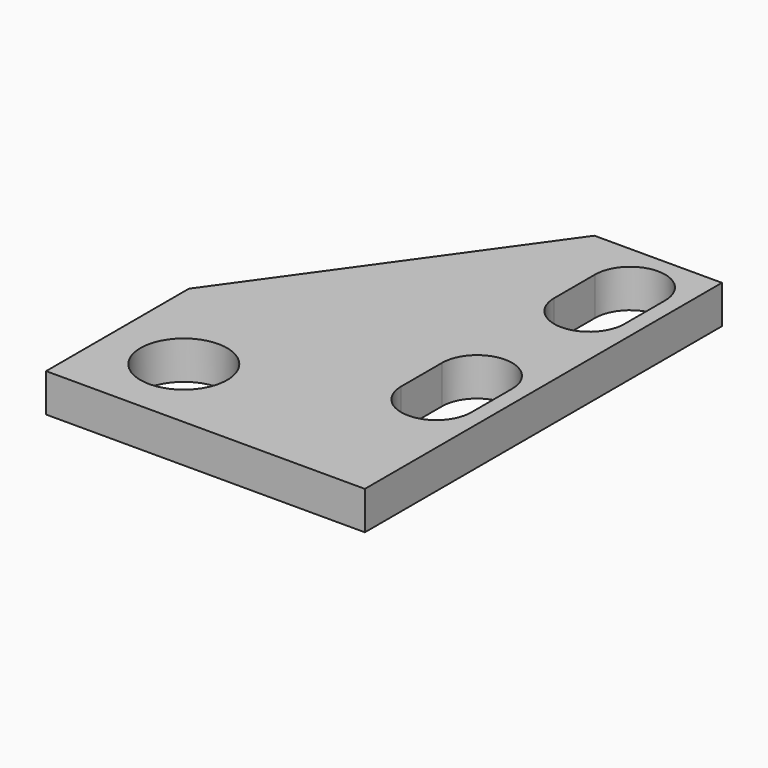
from build123d import *

# Parameters (mm, degrees)
F0_W     = 25
F0_H     = 35
F1_DEPTH = 3
F3_DEPTH = 25
F4_D     = 6.8
F4_DEPTH = 16.35
F4_TIP   = 2.0429261047
F6_DEPTH = 25


with BuildPart() as f1:
    # F0 (on Top) → F1 (new body)
    with BuildSketch(Plane.XY):
        with Locations((12.5, -17.5)):
            Rectangle(F0_W, F0_H)
    extrude(amount=F1_DEPTH)

    # F2 (on face) → F3 (cut)
    with BuildSketch(Plane.XY.offset(3)):
        with BuildLine():
            Line((18.25, -4), (23.75, -4))
            ThreePointArc((23.75, -4), (21, -1.25), (18.25, -4))
        make_face()
        with BuildLine():
            Line((23.75, -8), (23.75, -4))
            ThreePointArc((23.75, -4), (23.5251743677, -5.089033706), (22.8874586088, -6))
            ThreePointArc((22.8874586088, -6), (23.5251743677, -6.910966294), (23.75, -8))
        make_face()
        with BuildLine():
            ThreePointArc((22.8874586088, -6), (23.5251743677, -5.089033706), (23.75, -4))
            Line((23.75, -4), (18.25, -4))
            ThreePointArc((18.25, -4), (18.4748256323, -5.089033706), (19.1125413912, -6))
            ThreePointArc((19.1125413912, -6), (21, -5.25), (22.8874586088, -6))
        make_face()
        with BuildLine():
            ThreePointArc((19.1125413912, -6), (18.4748256323, -5.089033706), (18.25, -4))
            Line((18.25, -4), (18.25, -8))
            ThreePointArc((18.25, -8), (18.4748256323, -6.910966294), (19.1125413912, -6))
        make_face()
        with BuildLine():
            ThreePointArc((23.75, -8), (23.5251743677, -6.910966294), (22.8874586088, -6))
            ThreePointArc((22.8874586088, -6), (21, -6.75), (19.1125413912, -6))
            ThreePointArc((19.1125413912, -6), (18.4748256323, -6.910966294), (18.25, -8))
            ThreePointArc((18.25, -8), (21, -10.75), (23.75, -8))
        make_face()
        with BuildLine():
            ThreePointArc((22.8874586088, -21), (23.5251743677, -20.089033706), (23.75, -19))
            ThreePointArc((23.75, -19), (21, -16.25), (18.25, -19))
            ThreePointArc((18.25, -19), (18.4748256323, -20.089033706), (19.1125413912, -21))
            ThreePointArc((19.1125413912, -21), (21, -20.25), (22.8874586088, -21))
        make_face()
        with BuildLine():
            Line((23.75, -23), (23.75, -19))
            ThreePointArc((23.75, -19), (23.5251743677, -20.089033706), (22.8874586088, -21))
            ThreePointArc((22.8874586088, -21), (23.5251743677, -21.910966294), (23.75, -23))
        make_face()
        with BuildLine():
            ThreePointArc((19.1125413912, -21), (18.4748256323, -20.089033706), (18.25, -19))
            Line((18.25, -19), (18.25, -23))
            ThreePointArc((18.25, -23), (18.4748256323, -21.910966294), (19.1125413912, -21))
        make_face()
        with BuildLine():
            ThreePointArc((23.75, -23), (23.5251743677, -21.910966294), (22.8874586088, -21))
            ThreePointArc((22.8874586088, -21), (21, -21.75), (19.1125413912, -21))
            ThreePointArc((19.1125413912, -21), (18.4748256323, -21.910966294), (18.25, -23))
            ThreePointArc((18.25, -23), (21, -25.75), (23.75, -23))
        make_face()
        with BuildLine():
            ThreePointArc((19.1125413912, -21), (21, -21.75), (22.8874586088, -21))
            ThreePointArc((22.8874586088, -21), (21, -20.25), (19.1125413912, -21))
        make_face()
        with BuildLine():
            ThreePointArc((19.1125413912, -6), (21, -6.75), (22.8874586088, -6))
            ThreePointArc((22.8874586088, -6), (21, -5.25), (19.1125413912, -6))
        make_face()
    extrude(amount=-F3_DEPTH, mode=Mode.SUBTRACT)

    # F4
    with Locations(Plane.XY.offset(3)):
        with Locations((6, -29)):
            Hole(F4_D / 2, depth=F4_DEPTH)
            with Locations((0, 0, -(F4_DEPTH + F4_TIP / 2))):  # 118° drill point
                Cone(0, F4_D / 2, F4_TIP, mode=Mode.SUBTRACT)

    # F5 (on face) → F6 (cut)
    with BuildSketch(Plane.XY.offset(3)):
        Polygon((0, -21), (15, 0), (0, 0), align=None)
    extrude(amount=-F6_DEPTH, mode=Mode.SUBTRACT)


solid = f1.part
